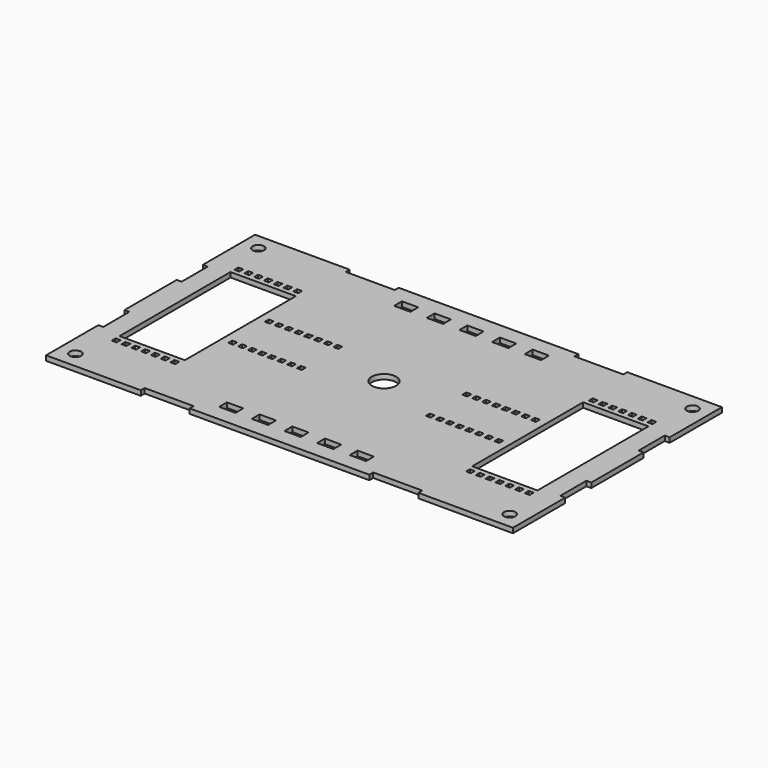
from build123d import *

# Parameters (mm, degrees)
F0_R     = 3.5
F0_W     = 3
F0_H     = 3
F0_W_2   = 10
F0_H_2   = 6
F0_W_3   = 40
F0_H_3   = 85
F0_R_2   = 7.5
F1_DEPTH = 1.5


with BuildPart() as f1:
    # F0 (on Top) → F1 (new body, symmetric)
    with BuildSketch(Plane.XY):
        Polygon((143, 40), (143, 80), (85, 80), (85, 77), (55, 77), (55, 80), (-55, 80), (-55, 77), (-85, 77), (-85, 80), (-143, 80), (-143, 40), (-140, 40), (-140, 20), (-143, 20), (-143, -20), (-140, -20), (-140, -40), (-143, -40), (-143, -80), (-85, -80), (-85, -77), (-55, -77), (-55, -80), (0, -80), (55, -80), (55, -77), (85, -77), (85, -80), (143, -80), (143, -40), (140, -40), (140, -20), (143, -20), (143, 20), (140, 20), (140, 40), align=None)
        with Locations((-133, -70)):
            Circle(F0_R, mode=Mode.SUBTRACT)
        with Locations((-126.5, -47)):
            Rectangle(F0_W, F0_H, mode=Mode.SUBTRACT)
        with Locations((-120.5, -47)):
            Rectangle(F0_W, F0_H, mode=Mode.SUBTRACT)
        with Locations((-114.5, -47)):
            Rectangle(F0_W, F0_H, mode=Mode.SUBTRACT)
        with Locations((-108.5, -47)):
            Rectangle(F0_W, F0_H, mode=Mode.SUBTRACT)
        with Locations((-102.5, -47)):
            Rectangle(F0_W, F0_H, mode=Mode.SUBTRACT)
        with Locations((-96.5, -47)):
            Rectangle(F0_W, F0_H, mode=Mode.SUBTRACT)
        with Locations((-90.5, -47)):
            Rectangle(F0_W, F0_H, mode=Mode.SUBTRACT)
        with Locations((-40.00055, -67)):
            Rectangle(F0_W_2, F0_H_2, mode=Mode.SUBTRACT)
        with Locations((-20.00055, -67)):
            Rectangle(F0_W_2, F0_H_2, mode=Mode.SUBTRACT)
        with Locations((-0.00055, -67)):
            Rectangle(F0_W_2, F0_H_2, mode=Mode.SUBTRACT)
        with Locations((-81.5, -14)):
            Rectangle(F0_W, F0_H, mode=Mode.SUBTRACT)
        with Locations((-75.5, -14)):
            Rectangle(F0_W, F0_H, mode=Mode.SUBTRACT)
        with Locations((-69.5, -14)):
            Rectangle(F0_W, F0_H, mode=Mode.SUBTRACT)
        with Locations((-63.5, -14)):
            Rectangle(F0_W, F0_H, mode=Mode.SUBTRACT)
        with Locations((-57.5, -14)):
            Rectangle(F0_W, F0_H, mode=Mode.SUBTRACT)
        with Locations((-51.5, -14)):
            Rectangle(F0_W, F0_H, mode=Mode.SUBTRACT)
        with Locations((-45.5, -14)):
            Rectangle(F0_W, F0_H, mode=Mode.SUBTRACT)
        with Locations((-39.5, -14)):
            Rectangle(F0_W, F0_H, mode=Mode.SUBTRACT)
        with Locations((19.99945, -67)):
            Rectangle(F0_W_2, F0_H_2, mode=Mode.SUBTRACT)
        with Locations((39.99945, -67)):
            Rectangle(F0_W_2, F0_H_2, mode=Mode.SUBTRACT)
        with Locations((133, -70)):
            Circle(F0_R, mode=Mode.SUBTRACT)
        with Locations((90.5, -47)):
            Rectangle(F0_W, F0_H, mode=Mode.SUBTRACT)
        with Locations((96.5, -47)):
            Rectangle(F0_W, F0_H, mode=Mode.SUBTRACT)
        with Locations((102.5, -47)):
            Rectangle(F0_W, F0_H, mode=Mode.SUBTRACT)
        with Locations((108.5, -47)):
            Rectangle(F0_W, F0_H, mode=Mode.SUBTRACT)
        with Locations((114.5, -47)):
            Rectangle(F0_W, F0_H, mode=Mode.SUBTRACT)
        with Locations((120.5, -47)):
            Rectangle(F0_W, F0_H, mode=Mode.SUBTRACT)
        with Locations((126.5, -47)):
            Rectangle(F0_W, F0_H, mode=Mode.SUBTRACT)
        with Locations((39.5, -14)):
            Rectangle(F0_W, F0_H, mode=Mode.SUBTRACT)
        with Locations((45.5, -14)):
            Rectangle(F0_W, F0_H, mode=Mode.SUBTRACT)
        with Locations((51.5, -14)):
            Rectangle(F0_W, F0_H, mode=Mode.SUBTRACT)
        with Locations((57.5, -14)):
            Rectangle(F0_W, F0_H, mode=Mode.SUBTRACT)
        with Locations((63.5, -14)):
            Rectangle(F0_W, F0_H, mode=Mode.SUBTRACT)
        with Locations((69.5, -14)):
            Rectangle(F0_W, F0_H, mode=Mode.SUBTRACT)
        with Locations((75.5, -14)):
            Rectangle(F0_W, F0_H, mode=Mode.SUBTRACT)
        with Locations((81.5, -14)):
            Rectangle(F0_W, F0_H, mode=Mode.SUBTRACT)
        with Locations((-108, 0)):
            Rectangle(F0_W_3, F0_H_3, mode=Mode.SUBTRACT)
        with Locations((-81.5, 14)):
            Rectangle(F0_W, F0_H, mode=Mode.SUBTRACT)
        with Locations((-75.5, 14)):
            Rectangle(F0_W, F0_H, mode=Mode.SUBTRACT)
        with Locations((-69.5, 14)):
            Rectangle(F0_W, F0_H, mode=Mode.SUBTRACT)
        with Locations((-63.5, 14)):
            Rectangle(F0_W, F0_H, mode=Mode.SUBTRACT)
        with Locations((-57.5, 14)):
            Rectangle(F0_W, F0_H, mode=Mode.SUBTRACT)
        with Locations((-51.5, 14)):
            Rectangle(F0_W, F0_H, mode=Mode.SUBTRACT)
        with Locations((-45.5, 14)):
            Rectangle(F0_W, F0_H, mode=Mode.SUBTRACT)
        with Locations((-39.5, 14)):
            Rectangle(F0_W, F0_H, mode=Mode.SUBTRACT)
        with Locations((-126.5, 47)):
            Rectangle(F0_W, F0_H, mode=Mode.SUBTRACT)
        with Locations((-120.5, 47)):
            Rectangle(F0_W, F0_H, mode=Mode.SUBTRACT)
        with Locations((-114.5, 47)):
            Rectangle(F0_W, F0_H, mode=Mode.SUBTRACT)
        with Locations((-108.5, 47)):
            Rectangle(F0_W, F0_H, mode=Mode.SUBTRACT)
        with Locations((-102.5, 47)):
            Rectangle(F0_W, F0_H, mode=Mode.SUBTRACT)
        with Locations((-96.5, 47)):
            Rectangle(F0_W, F0_H, mode=Mode.SUBTRACT)
        with Locations((-90.5, 47)):
            Rectangle(F0_W, F0_H, mode=Mode.SUBTRACT)
        with Locations((-133, 70)):
            Circle(F0_R, mode=Mode.SUBTRACT)
        with Locations((-40.00055, 67)):
            Rectangle(F0_W_2, F0_H_2, mode=Mode.SUBTRACT)
        with Locations((-20.00055, 67)):
            Rectangle(F0_W_2, F0_H_2, mode=Mode.SUBTRACT)
        with Locations((-0.00055, 67)):
            Rectangle(F0_W_2, F0_H_2, mode=Mode.SUBTRACT)
        Circle(F0_R_2, mode=Mode.SUBTRACT)
        with Locations((39.5, 14)):
            Rectangle(F0_W, F0_H, mode=Mode.SUBTRACT)
        with Locations((45.5, 14)):
            Rectangle(F0_W, F0_H, mode=Mode.SUBTRACT)
        with Locations((51.5, 14)):
            Rectangle(F0_W, F0_H, mode=Mode.SUBTRACT)
        with Locations((57.5, 14)):
            Rectangle(F0_W, F0_H, mode=Mode.SUBTRACT)
        with Locations((63.5, 14)):
            Rectangle(F0_W, F0_H, mode=Mode.SUBTRACT)
        with Locations((69.5, 14)):
            Rectangle(F0_W, F0_H, mode=Mode.SUBTRACT)
        with Locations((75.5, 14)):
            Rectangle(F0_W, F0_H, mode=Mode.SUBTRACT)
        with Locations((81.5, 14)):
            Rectangle(F0_W, F0_H, mode=Mode.SUBTRACT)
        with Locations((108, 0)):
            Rectangle(F0_W_3, F0_H_3, mode=Mode.SUBTRACT)
        with Locations((19.99945, 67)):
            Rectangle(F0_W_2, F0_H_2, mode=Mode.SUBTRACT)
        with Locations((39.99945, 67)):
            Rectangle(F0_W_2, F0_H_2, mode=Mode.SUBTRACT)
        with Locations((90.5, 47)):
            Rectangle(F0_W, F0_H, mode=Mode.SUBTRACT)
        with Locations((96.5, 47)):
            Rectangle(F0_W, F0_H, mode=Mode.SUBTRACT)
        with Locations((102.5, 47)):
            Rectangle(F0_W, F0_H, mode=Mode.SUBTRACT)
        with Locations((108.5, 47)):
            Rectangle(F0_W, F0_H, mode=Mode.SUBTRACT)
        with Locations((114.5, 47)):
            Rectangle(F0_W, F0_H, mode=Mode.SUBTRACT)
        with Locations((120.5, 47)):
            Rectangle(F0_W, F0_H, mode=Mode.SUBTRACT)
        with Locations((126.5, 47)):
            Rectangle(F0_W, F0_H, mode=Mode.SUBTRACT)
        with Locations((133, 70)):
            Circle(F0_R, mode=Mode.SUBTRACT)
    extrude(amount=F1_DEPTH, both=True)


solid = f1.part
